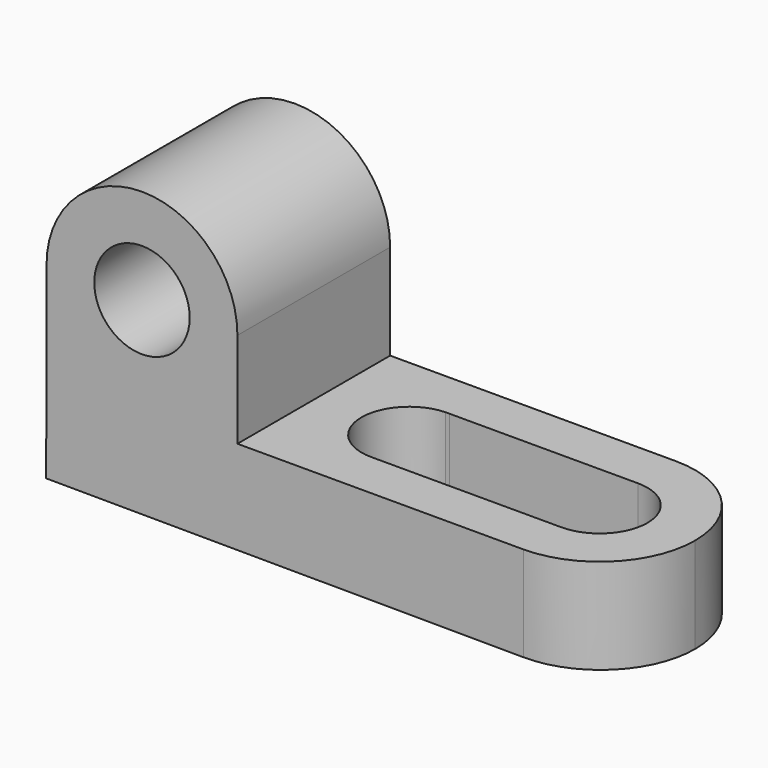
from build123d import *

# Parameters (mm, degrees)
F1_DEPTH = 25.4
F2_R     = 6.3498502592
F3_DEPTH = 25.4
F5_DEPTH = 12.7
F7_DEPTH = 25.4


with BuildPart() as f1:
    # F0 (on Front) → F1 (new body)
    with BuildSketch(Plane.XZ):
        with BuildLine():
            Line((-29.9805339301, 47.0739776071), (-29.9805339301, 34.3739776071))
            Line((-29.9805339301, 34.3739776071), (-30.0404094228, 22.0440076031))
            Line((-30.0404094228, 22.0440076031), (46.1586921323, 21.6739776071))
            Line((46.1586921323, 21.6739776071), (46.1586921323, 34.3739776071))
            Line((46.1586921323, 34.3739776071), (-4.5808334117, 34.3739776071))
            Line((-4.5808334117, 34.3739776071), (-4.5808334117, 47.0739776071))
            ThreePointArc((-4.5808334117, 47.0739776071), (-17.2806836709, 59.7738278663), (-29.9805339301, 47.0739776071))
        make_face()
    extrude(amount=F1_DEPTH)

    # F2 (on face) → F3 (cut)
    with BuildSketch(Plane.XZ.offset(25.4)):
        with Locations((-17.2806836709, 47.0739776071)):
            Circle(F2_R)
    extrude(amount=-F3_DEPTH, mode=Mode.SUBTRACT)

    # F4 (on face) → F5 (cut)
    with BuildSketch(Plane.XY.offset(34.3739776071)):
        with BuildLine():
            ThreePointArc((33.4586921323, 0), (42.4389482533, -3.7197438789), (46.1586921323, -12.7))
            Line((46.1586921323, -12.7), (46.1586921323, 0))
            Line((46.1586921323, 0), (33.4586921323, 0))
        make_face()
        with BuildLine():
            Line((46.1586921323, -25.4), (46.1586921323, -12.7))
            ThreePointArc((46.1586921323, -12.7), (42.4389482533, -21.6802561211), (33.4586921323, -25.4))
            Line((33.4586921323, -25.4), (46.1586921323, -25.4))
        make_face()
    extrude(amount=-F5_DEPTH, mode=Mode.SUBTRACT)

    # F6 (on face) → F7 (cut)
    with BuildSketch(Plane.XY.offset(34.3739776071)):
        with BuildLine():
            Line((8.3943191118, -6.3559641324), (7.8409948456, -6.3560958014))
            ThreePointArc((7.8409948456, -6.3560958014), (1.7706907215, -12.8391192629), (8.1191665883, -19.05))
            ThreePointArc((8.1191665883, -19.05), (12.6092946488, -17.1901280605), (14.4691665883, -12.7))
            ThreePointArc((14.4691665883, -12.7), (12.7055441634, -8.308230341), (8.3943191118, -6.3559641324))
        make_face()
        with BuildLine():
            ThreePointArc((14.4691665883, -12.7), (12.6092946488, -17.1901280605), (8.1191665883, -19.05))
            Line((8.1191665883, -19.05), (33.4586921323, -19.05))
            ThreePointArc((33.4586921323, -19.05), (27.1086921772, -12.7007555222), (33.4571810878, -6.3500001798))
            Line((33.4571810878, -6.3500001798), (8.3943191118, -6.3559641324))
            ThreePointArc((8.3943191118, -6.3559641324), (12.7055441634, -8.308230341), (14.4691665883, -12.7))
        make_face()
        with BuildLine():
            ThreePointArc((33.4571810878, -6.3500001798), (27.1086921772, -12.7007555222), (33.4586921323, -19.05))
            ThreePointArc((33.4586921323, -19.05), (37.9488201928, -17.1901280605), (39.8086921323, -12.7))
            ThreePointArc((39.8086921323, -12.7), (37.9482859261, -8.2093377364), (33.4571810878, -6.3500001798))
        make_face()
    extrude(amount=-F7_DEPTH, mode=Mode.SUBTRACT)


solid = f1.part
